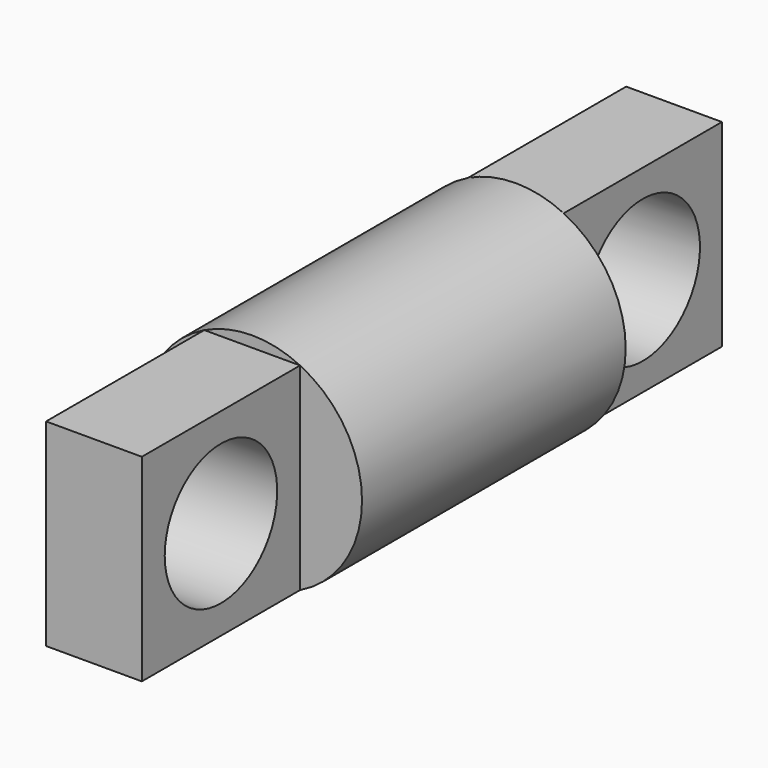
from build123d import *

# Parameters (mm, degrees)
F0_W     = 5
F0_H     = 15
F2_W     = 4.3588989435
F2_H     = 9
F3_DEPTH = 9
F4_R     = 3.1991269496
F5_DEPTH = 5
F6_W     = 4.3588989435
F6_H     = 9
F7_DEPTH = 9
F8_R     = 3.25
F9_DEPTH = 5


with BuildPart() as f1:
    # F0 (on Top) → F1 (revolve)
    with BuildSketch(Plane.XY):
        with Locations((-2.5, 7.5)):
            Rectangle(F0_W, F0_H)
    revolve(axis=Axis((0, 7.5, 0), (0, 1, 0)))

    # F2 (on face) → F3 (join)
    with BuildSketch(Plane.XZ):
        Rectangle(F2_W, F2_H)
    extrude(amount=F3_DEPTH)

    # F4 (on face) → F5 (cut)
    with BuildSketch(Plane(origin=(-2.1794494718, 0, 0), x_dir=(0, -1, 0), z_dir=(-1, 0, 0))):
        with Locations((4.5, 0)):
            Circle(F4_R)
    extrude(amount=-F5_DEPTH, mode=Mode.SUBTRACT)

    # F6 (on face) → F7 (join)
    with BuildSketch(Plane(origin=(0, 15, 0), x_dir=(-1, 0, 0), z_dir=(0, 1, 0))):
        Rectangle(F6_W, F6_H)
    extrude(amount=F7_DEPTH)

    # F8 (on face) → F9 (cut)
    with BuildSketch(Plane(origin=(-2.1794494718, 0, 0), x_dir=(0, -1, 0), z_dir=(-1, 0, 0))):
        with Locations((-19.5, 0)):
            Circle(F8_R)
    extrude(amount=-F9_DEPTH, mode=Mode.SUBTRACT)


solid = f1.part
